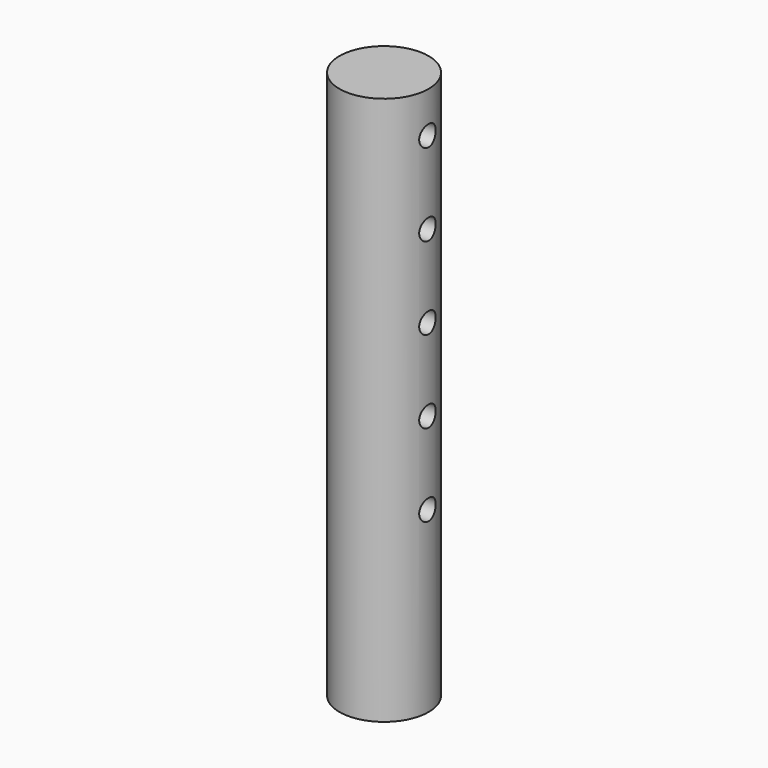
from build123d import *

# Parameters (mm, degrees)
SKETCH196_R     = 6.5
PAD080_DEPTH    = 20
SKETCH197_R     = 3.25
POCKET078_DEPTH = 20.001
SKETCH198_R     = 5.5
POCKET079_DEPTH = 15
SKETCH199_R     = 6.5
SKETCH199_R_2   = 3.875
PAD081_DEPTH    = 58
SKETCH200_R     = 6.5
PAD082_DEPTH    = 2
SKETCH201_W     = 6.5
SKETCH201_H     = 2
PAD083_DEPTH    = 1
SKETCH202_R     = 1.5
POCKET080_DEPTH = 13.001
SKETCH203_W     = 6.5
SKETCH203_H     = 1
POCKET081_DEPTH = 2


with BuildPart() as part:
    # Sketch196 → Pad080 (new body)
    with BuildSketch(Plane.XY):
        Circle(SKETCH196_R)
    extrude(amount=PAD080_DEPTH)

    # Sketch197 (on Face3 of Pad080) → Pocket078 (cut, through all)
    with BuildSketch(Plane.XY.offset(20)):
        Circle(SKETCH197_R)
    extrude(amount=-POCKET078_DEPTH, mode=Mode.SUBTRACT)

    # Sketch198 (on Face2 of Pocket078) → Pocket079 (cut)
    with BuildSketch(Plane(origin=(0, 0, 0), x_dir=(1, 0, 0), z_dir=(0, 0, -1))):
        Circle(SKETCH198_R)
    extrude(amount=-POCKET079_DEPTH, mode=Mode.SUBTRACT)

    # Sketch199 (on Face3 of Pocket079) → Pad081 (join)
    with BuildSketch(Plane.XY.offset(20)):
        Circle(SKETCH199_R)
        Circle(SKETCH199_R_2, mode=Mode.SUBTRACT)
    extrude(amount=PAD081_DEPTH)

    # Sketch200 (on Face6 of Pad081) → Pad082 (join)
    with BuildSketch(Plane.XY.offset(78)):
        Circle(SKETCH200_R)
    extrude(amount=PAD082_DEPTH)

    # Sketch201 (on Face8 of Pad082) → Pad083 (join)
    with BuildSketch(Plane.XY.offset(80)):
        with Locations((-3.25, 0)):
            Rectangle(SKETCH201_W, SKETCH201_H)
    extrude(amount=PAD083_DEPTH)

    # Sketch202 (on Face15 of Pad083) → Pocket080 (cut, through all)
    with BuildSketch(Plane(origin=(-6.5, 0, 0), x_dir=(0, -1, 0), z_dir=(-1, 0, 0))):
        with Locations((0, 74)):
            Circle(SKETCH202_R)
        with Locations((0, 62)):
            Circle(SKETCH202_R)
        with Locations((0, 50)):
            Circle(SKETCH202_R)
        with Locations((0, 38)):
            Circle(SKETCH202_R)
        with Locations((0, 26)):
            Circle(SKETCH202_R)
    extrude(amount=-POCKET080_DEPTH, mode=Mode.SUBTRACT)

    # Sketch203 (on Face24 of Pocket080) → Pocket081 (cut)
    with BuildSketch(Plane.XZ.offset(1)):
        with Locations((-3.25, 80.5)):
            Rectangle(SKETCH203_W, SKETCH203_H)
    extrude(amount=-POCKET081_DEPTH, mode=Mode.SUBTRACT)


solid = part.part
